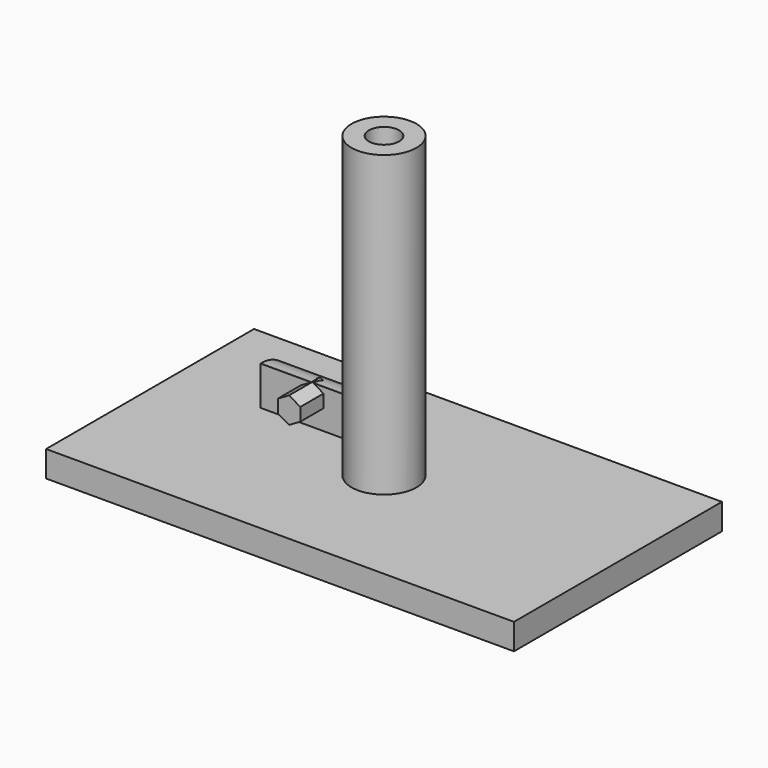
from build123d import *

# Parameters (mm, degrees)
F0_W      = 36
F0_H      = 20
F2_DEPTH  = 2
F1_W      = 10
F1_H      = 3
F3_DEPTH  = 5
F4_R      = 2.897056
F6_DEPTH  = 3
F7_R      = 2.5
F8_DEPTH  = 25
F9_R      = 1.163091
F10_DEPTH = 30


with BuildPart() as f2:
    # F0 (on Top) → F2 (new body)
    with BuildSketch(Plane.XY):
        Rectangle(F0_W, F0_H)
    extrude(amount=F2_DEPTH)

    # F1 (on Top) → F3 (join)
    with BuildSketch(Plane.XY):
        with Locations((-6.279705, 3.728283)):
            Rectangle(F1_W, F1_H)
    extrude(amount=F3_DEPTH)

    # F4
    f4_edges = [f2.edges().sort_by_distance(p)[0] for p in [
        (-6.279705, 5.228283, 5),
    ]]
    fillet(f4_edges, radius=F4_R)

    # F7 (on Top) → F8 (join)
    with BuildSketch(Plane.XY):
        Circle(F7_R)
    extrude(amount=F8_DEPTH)

    # F9 (on face) → F10 (cut)
    with BuildSketch(Plane.XY.offset(25)):
        Circle(F9_R)
    extrude(amount=-F10_DEPTH, mode=Mode.SUBTRACT)


with BuildPart() as f6:
    # F5 (on Front) → F6 (new body)
    with BuildSketch(Plane.XZ):
        Polygon((-6.439249, 3.544959), (-6.439249, 4.544959), (-7.305274, 5.044959), (-8.1713, 4.544959), (-8.1713, 3.544959), (-7.305274, 3.044959), align=None)
    extrude(amount=-F6_DEPTH)


solid = Compound([f2.part, f6.part])
